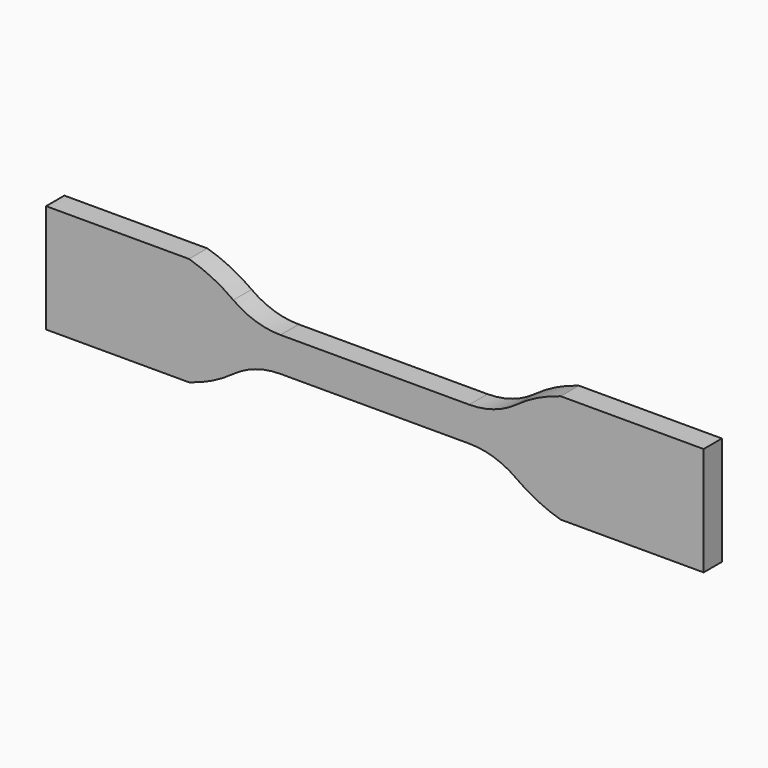
from build123d import *

# Parameters (mm, degrees)
F1_DEPTH = 2


with BuildPart() as f1:
    # F0 (on Front) → F1 (new body, symmetric)
    with BuildSketch(Plane.XZ):
        with BuildLine():
            Line((16.5, 3), (0, 3))
            Line((0, 3), (-16.5, 3))
            ThreePointArc((-16.5, 3), (-20.840551, 3.689868), (-24.753329, 5.691483))
            ThreePointArc((-24.753329, 5.691483), (-28.460703, 7.932571), (-32.4993, 9.5))
            Line((-32.4993, 9.5), (-57.5, 9.5))
            Line((-57.5, 9.5), (-57.5, 0))
            Line((-57.5, 0), (-57.5, -9.5))
            Line((-57.5, -9.5), (-32.4993, -9.5))
            ThreePointArc((-32.4993, -9.5), (-28.460703, -7.932571), (-24.753329, -5.691483))
            ThreePointArc((-24.753329, -5.691483), (-20.840551, -3.689868), (-16.5, -3))
            Line((-16.5, -3), (0, -3))
            Line((0, -3), (16.5, -3))
            ThreePointArc((16.5, -3), (20.840551, -3.689868), (24.753329, -5.691483))
            ThreePointArc((24.753329, -5.691483), (28.460703, -7.932571), (32.4993, -9.5))
            Line((32.4993, -9.5), (57.5, -9.5))
            Line((57.5, -9.5), (57.5, 0))
            Line((57.5, 0), (57.5, 9.5))
            Line((57.5, 9.5), (32.4993, 9.5))
            ThreePointArc((32.4993, 9.5), (28.460703, 7.932571), (24.753329, 5.691483))
            ThreePointArc((24.753329, 5.691483), (20.840551, 3.689868), (16.5, 3))
        make_face()
    extrude(amount=F1_DEPTH, both=True)


solid = f1.part
